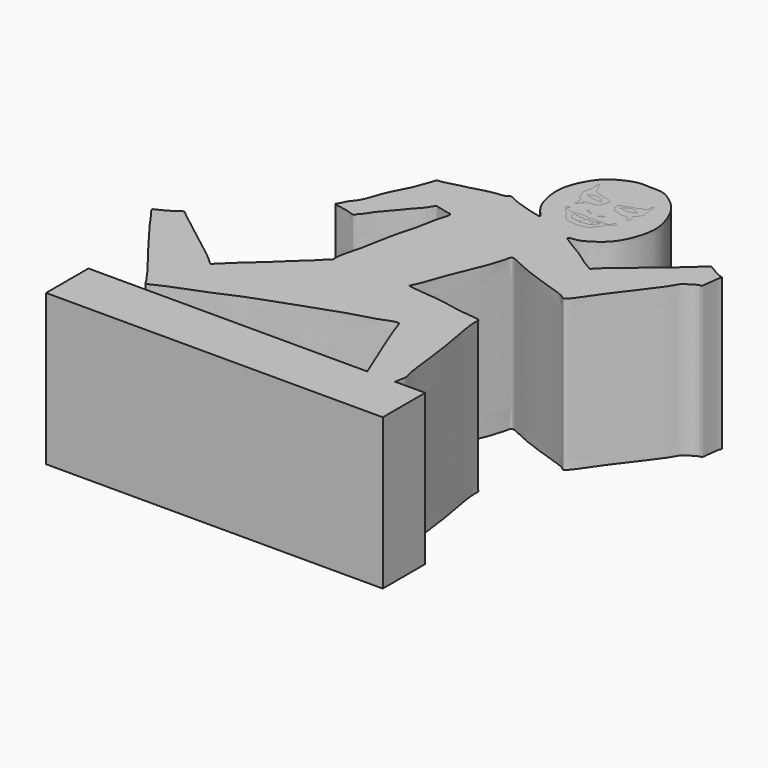
from build123d import *

# Parameters (mm, degrees)
F1_DEPTH = 25.4
F3_DEPTH = 8.7884
F4_W     = 56.6977346316
F4_H     = 8.9219785295
F5_DEPTH = 25.4


with BuildPart() as f1:
    # F0 (on Top) → F1 (new body)
    with BuildSketch(Plane.XY):
        with BuildLine():
            add(Edge.make_bspline(
                [(-18.5659807175, 4.1541662067), (-18.2042361263, 4.4056886884), (-18.2890368782, 6.4363238067), (-17.9087702019, 8.1638774325), (-17.8003695656, 8.6523393259), (-18.2205587111, 9.8511585385), (-18.4460358028, 11.913791687), (-18.8659902811, 15.277986794), (-19.280801125, 18.6439636285), (-20.0158743569, 22.4580856318), (-20.6314641061, 26.1270111673), (-20.4438110369, 27.4711185118), (-21.4305718393, 27.5687153158), (-24.8683071647, 27.8668912076), (-27.7437843787, 28.6702401074), (-31.1180463599, 28.8655216797), (-32.9417857013, 29.1302410371), (-33.4966692727, 29.1798507134), (-33.9096286487, 29.2430102048), (-33.1214090502, 30.4756695808), (-32.1784255425, 33.625518904), (-30.8396523851, 36.7782426274), (-29.4408057887, 40.1333382309), (-28.7994500257, 42.072049557), (-28.4542692293, 43.7603367652), (-28.0801216899, 44.2155422545), (-25.0546238258, 42.5862433139), (-21.7998495136, 41.4246109881), (-18.4163854762, 40.325565876), (-16.2991844612, 39.6188519578), (-15.7243893344, 38.9723313863), (-15.2128548768, 39.3493208214), (-13.773613131, 41.2787831046), (-12.4275904118, 43.4120770038), (-9.0079661787, 47.8170508595), (-6.95921729, 50.5527477551), (-6.2756524015, 51.9438423585), (-5.7482219005, 52.2728794321), (-5.216741218, 52.6316450995), (-4.0171528801, 53.3944755648), (-3.6717096988, 53.0159316457), (-3.4336886374, 55.0924510761), (-3.3600726731, 56.3108132157), (-3.006787649, 56.8801483646), (-3.7351024808, 56.9240336177), (-4.6183642199, 57.4747692816), (-5.8097640616, 58.0453097784), (-6.1335329628, 58.5208213479), (-7.4744312951, 57.2756294281), (-8.8270469414, 55.9445906656), (-11.2251036215, 54.0071788991), (-13.4623411944, 52.1126319284), (-15.6771026127, 50.187030437), (-17.8502690347, 48.4104035112), (-18.1433552032, 47.8129492838), (-18.5293631497, 47.9849107117), (-20.0915330494, 48.8891010277), (-22.0991072876, 50.4578962795), (-23.8986251026, 51.3766683139), (-25.2769247821, 52.3391225528), (-25.8563647154, 52.6510332811), (-26.240710541, 53.1000378264), (-24.5589623412, 53.0951302949), (-22.9047961662, 54.0119369119), (-21.010668942, 55.4124638889), (-19.5262507759, 57.5247855949), (-18.2668907227, 61.6041719318), (-18.8702715397, 64.3498019692), (-19.7020698653, 66.6142056721), (-21.0861188095, 68.8043340558), (-24.0008814275, 71.0152060399), (-25.7378788229, 70.9103782869), (-27.6011919194, 71.0718866176), (-29.0702298401, 70.9532083618), (-31.2922550541, 69.9920952855), (-33.1780666193, 68.679454722), (-34.7073680021, 66.1529851162), (-35.4303104487, 64.0304111539), (-35.5768210741, 62.1097673662), (-35.2707720036, 59.9654662507), (-34.585806885, 57.8453954624), (-33.3692802021, 56.2569347828), (-32.3290485885, 55.297537189), (-34.0402588297, 55.6639124124), (-36.2312093453, 56.3227108616), (-38.1955800191, 56.9829163474), (-39.4067408207, 57.727685812), (-39.7547928019, 57.03011869), (-40.9291752741, 57.0587892568), (-43.0841706105, 56.6099768269), (-45.1917398974, 55.9196067707), (-47.0353865872, 55.6363245856), (-48.858234236, 54.9812411401), (-49.7817504253, 55.0417312185), (-49.8351458126, 54.4804610338), (-50.29018651, 53.3691467115), (-50.9893879694, 51.2857360878), (-52.0447127102, 49.4021815595), (-52.9852979309, 47.468354988), (-53.4607755077, 45.7294601097), (-54.2144076106, 43.9282852534), (-55.2405065691, 43.0099745088), (-55.505478015, 41.9140463411), (-56.209527114, 41.3271750204), (-54.7444197106, 41.1404085741), (-52.8265820848, 40.7117421012), (-52.0171729177, 40.3375230236), (-51.9784980012, 40.8696951392), (-51.1909896436, 41.5153189154), (-50.5921017631, 42.7944900736), (-48.8166259006, 44.5887614179), (-47.6171453753, 46.2856390911), (-46.2900860054, 47.5608100082), (-45.4561195214, 48.7955325444), (-45.3157458332, 49.329247537), (-44.604942868, 49.093735384), (-43.3217090223, 48.7835769306), (-42.6930005116, 48.6529989698), (-42.1116862769, 48.5937851558), (-42.3286188398, 47.5191433558), (-42.8576507735, 46.2332324129), (-43.2157998659, 43.1484618849), (-43.9800853956, 40.9984278883), (-44.6699601293, 37.9048617397), (-45.1581607469, 34.8884113581), (-45.6460500446, 32.7310792445), (-46.5049895539, 29.7164002848), (-46.1837102247, 28.6607392043), (-46.7339702102, 28.6028746652), (-47.9009337632, 27.1817343599), (-50.0535413528, 25.3552616958), (-51.6900872109, 23.7240054429), (-53.3593243994, 22.1441934304), (-54.7639593897, 20.9659485362), (-55.819818102, 20.0162567951), (-56.7903647425, 18.9614857653), (-57.7969453656, 18.1556350525), (-57.8408592976, 17.8972842004), (-58.1891244192, 17.7354949842), (-59.3139874439, 19.0934357099), (-62.75659993, 21.4917249852), (-66.1471773342, 24.3556980509), (-69.3699023295, 26.6341740013), (-70.1575645399, 27.4663689639), (-70.6657283865, 26.8687574511), (-71.4755780625, 26.400712111), (-72.962953636, 25.5642582458), (-73.6665299118, 25.3070651891), (-73.8909430609, 25.0331502362), (-73.0818333677, 24.1679709132), (-71.7637781224, 22.0765309476), (-69.3490449586, 19.0160970793), (-65.9686317148, 14.3936422992), (-63.5806432809, 11.5256383356), (-61.88349482, 9.0566238683), (-61.5441597383, 8.612054579), (-61.275389981, 7.8976600698), (-60.1118148552, 8.6233818292), (-57.0471764853, 9.8362691083), (-53.319028035, 11.2928957302), (-50.679278144, 12.3676870263), (-48.1572624311, 13.5606040464), (-45.3652572831, 14.3943265275), (-35.3290097506, 18.255675704), (-31.1732386137, 19.1186471811), (-28.9862337646, 20.1433884652), (-28.0157225141, 20.2136510328), (-27.6228117813, 18.3838898063), (-24.8897973894, 11.8267368178), (-22.824429561, 6.7094150943), (-22.0499799759, 4.8306180968), (-21.9072747892, 4.0365584749), (-20.053930969, 4.6577425632), (-18.8649853322, 3.9462670853), (-18.5659807175, 4.1541662067)],
                knots=[0, 0, 0, 0, 0.0064954779, 0.0124352179, 0.0153419807, 0.0199735427, 0.0263080412, 0.0343101159, 0.0423568679, 0.0510906188, 0.0595247476, 0.0639464631, 0.0676271569, 0.0756419027, 0.0834687381, 0.0914760252, 0.0972905916, 0.1004487517, 0.1025045407, 0.1070646031, 0.1150957655, 0.1233609437, 0.131574322, 0.1379699834, 0.1434652915, 0.1460512264, 0.1536241701, 0.1621710625, 0.1704209853, 0.1768468165, 0.1803831097, 0.1833229944, 0.1898700645, 0.1970706377, 0.2073605292, 0.2155612726, 0.2206799674, 0.2238636303, 0.227538923, 0.2325481591, 0.2345110669, 0.2402860751, 0.2455244603, 0.2483357875, 0.2514210944, 0.2560695569, 0.2610576302, 0.263744587, 0.2690769771, 0.2753645499, 0.282932196, 0.2904119381, 0.2980767983, 0.3052864716, 0.308334176, 0.3106567388, 0.316411819, 0.323518889, 0.3298004072, 0.3353571348, 0.3389339386, 0.3412448479, 0.3461195141, 0.3523414865, 0.3588818633, 0.3658913048, 0.3747621607, 0.382016344, 0.3886206113, 0.395704288, 0.4038026263, 0.4094794132, 0.4152861308, 0.4205773363, 0.4272185605, 0.4338597889, 0.4412536118, 0.4477602919, 0.4537140828, 0.4600778043, 0.4665866909, 0.4729503908, 0.4768773179, 0.4814419151, 0.4883800335, 0.4948173271, 0.4994753856, 0.5026093525, 0.5070811303, 0.5136087353, 0.5201207544, 0.5261324399, 0.5322119549, 0.5359740789, 0.5387566727, 0.5434786361, 0.5499682511, 0.5564430863, 0.5627615178, 0.5686518294, 0.5746567512, 0.57970522, 0.5843203377, 0.5875263193, 0.5920094252, 0.5985166797, 0.6020388401, 0.6045961548, 0.6088360111, 0.6140359362, 0.6209223351, 0.6272623967, 0.6332259797, 0.6384777514, 0.6412301627, 0.6446381162, 0.6497452222, 0.6533305187, 0.6561130915, 0.6601254498, 0.6654386004, 0.6729920662, 0.6796922307, 0.687403541, 0.6949570243, 0.7016275234, 0.7093109309, 0.7132983609, 0.7158540304, 0.721587364, 0.7290477273, 0.7357226025, 0.7422932008, 0.7481673874, 0.7533001174, 0.7586587625, 0.7634470076, 0.7654716163, 0.7675191601, 0.7728084665, 0.7818192262, 0.7913493384, 0.7999422129, 0.8039317103, 0.8072066263, 0.8115469965, 0.8172970106, 0.8210071015, 0.8230317152, 0.8273173287, 0.8341693888, 0.8428757098, 0.8532964359, 0.8620141855, 0.8692326981, 0.8725022461, 0.8756291144, 0.8800289347, 0.8880706907, 0.8968949644, 0.9042746408, 0.9112097039, 0.9188018197, 0.9330237402, 0.9423468163, 0.9487564506, 0.9523555643, 0.9576162816, 0.9693994873, 0.9799294344, 0.985825492, 0.9889257377, 0.9946310798, 1, 1, 1, 1], degree=3))
        make_face()
    extrude(amount=-F1_DEPTH)

    # F4 (on Top) → F5 (join)
    with BuildSketch(Plane.XY):
        with Locations((-41.4440291934, 2.3024461698)):
            Rectangle(F4_W, F4_H)
    extrude(amount=-F5_DEPTH)


with BuildPart() as f3:
    # F2 (on face) → F3 (new body)
    with BuildSketch(Plane.XY):
        with BuildLine():
            add(Edge.make_bspline(
                [(-26.824330911, 60.2908954024), (-26.7613175317, 60.3460520481), (-26.5946758741, 60.451841608), (-26.3367311778, 60.595460382), (-26.1542438205, 60.673550113), (-26.005063405, 60.7014758678), (-25.8983334851, 60.6591654771), (-25.8897755549, 60.540479356), (-25.9531101475, 60.5209182152), (-26.0839736894, 60.4698463897), (-26.2242996029, 60.4193937947), (-26.3392841882, 60.3847658764), (-26.4043945911, 60.3354906894), (-26.527560157, 60.2928867967), (-26.6578203234, 60.250032372), (-26.7784651107, 60.1966570464), (-26.8899974303, 60.1602094304), (-26.915299839, 60.1985065443), (-26.8667255246, 60.2537867011), (-26.824330911, 60.2908954024)],
                knots=[0, 0, 0, 0, 0.0867382801, 0.1766998683, 0.2499547302, 0.3126945242, 0.3646168888, 0.414578401, 0.4529884173, 0.5145249387, 0.5795898331, 0.6353804499, 0.6816826378, 0.7401968742, 0.801487341, 0.8632836721, 0.9163595118, 0.94164357, 1, 1, 1, 1], degree=3))
        make_face()
    extrude(amount=-F3_DEPTH)


with BuildPart() as f3b:
    # F2 (on face) → F3, piece 2 (new body)
    with BuildSketch(Plane.XY):
        with BuildLine():
            add(Edge.make_bspline(
                [(-27.8926733881, 60.1890161633), (-27.8822121578, 60.1958536289), (-27.8957807049, 60.227079104), (-27.8909323582, 60.2404885972), (-27.9194068855, 60.2556774589), (-28.0208552896, 60.3703825658), (-28.1222488797, 60.4315827234), (-28.2652300639, 60.5113217298), (-28.3475961092, 60.5482394802), (-28.442692209, 60.6081066432), (-28.5387753557, 60.6877614988), (-28.6514256371, 60.754964231), (-28.7443341109, 60.7866239138), (-28.8545397739, 60.7825265273), (-28.9052324729, 60.7335258691), (-28.9250736871, 60.6963429497), (-28.9023017469, 60.6219774735), (-28.8424425311, 60.5494870752), (-28.7878184392, 60.5066041572), (-28.710959232, 60.5073653526), (-28.6261481891, 60.501524432), (-28.5033192559, 60.4436230369), (-28.3935283502, 60.3754812763), (-28.313720898, 60.3560595565), (-27.9281211644, 60.1658474783), (-27.8926733881, 60.1890161633)],
                knots=[0, 0, 0, 0, 0.0270575076, 0.0427181218, 0.0647267339, 0.118571312, 0.1693557007, 0.2249510509, 0.2674074506, 0.3134078986, 0.3634542464, 0.413796561, 0.4579176992, 0.5031651507, 0.5388599927, 0.566019666, 0.6036419715, 0.6469983766, 0.683009058, 0.7204625223, 0.7612037161, 0.8130888893, 0.8609451751, 0.9083159008, 1, 1, 1, 1], degree=3))
        make_face()
    extrude(amount=-F3_DEPTH)


with BuildPart() as f3c:
    # F2 (on face) → F3, piece 3 (new body)
    with BuildSketch(Plane.XY):
        with BuildLine():
            add(Edge.make_bspline(
                [(-25.2997111529, 57.4133433402), (-25.2865569792, 57.449508623), (-25.2567643363, 57.4887645637), (-25.1994854436, 57.6157349903), (-25.0743159714, 57.7474994779), (-24.9389930865, 57.8838189504), (-24.8022980211, 58.0291808031), (-24.7300816943, 58.0990401225), (-24.6504821496, 58.2264021012), (-24.5947253561, 58.3833403479), (-24.4798147187, 58.6234127091), (-24.4363820979, 58.8182056707), (-24.4145222223, 58.8623761005), (-24.3533864708, 58.9079709698), (-24.3068972633, 58.9448042921), (-24.2052552119, 58.9517429546), (-24.2638955566, 59.0296082605), (-24.2210099776, 59.1113346276), (-24.1429034235, 59.0362460538), (-24.136908831, 59.1375509658), (-24.0322048675, 59.1388011064), (-23.9425474749, 59.1844757791), (-23.8617201031, 59.2034130039), (-23.8272390483, 59.2898758236), (-23.8272622426, 59.3477886718), (-23.8710888326, 59.3890778524), (-23.840732097, 59.4367713973), (-23.860074998, 59.4763348399), (-23.8258886816, 59.5242222658), (-23.7887334624, 59.4510323985), (-23.6876675789, 59.4339894854), (-23.6149289886, 59.4258706376), (-23.5247214554, 59.494033745), (-23.4424635392, 59.5562622861), (-23.373098322, 59.6887552005), (-23.3193220664, 59.8024420654), (-23.3596210891, 59.9210812285), (-23.439832737, 59.9951091038), (-23.5421920774, 60.0616714922), (-23.6129626156, 60.1022542921), (-23.691880953, 60.0945268648), (-23.7344434906, 60.045826114), (-23.7849659328, 59.9843634635), (-23.8410881434, 59.9393302169), (-23.8751419969, 59.8754181766), (-23.8974856123, 59.8259759349), (-23.8148416186, 59.76653233), (-23.8104205595, 59.7204251953), (-23.837339761, 59.6715549172), (-23.8655255296, 59.6497536242), (-23.9225634713, 59.6496753249), (-23.9525435549, 59.7049989462), (-24.0007777537, 59.7283761341), (-23.9336251889, 59.6283314548), (-23.9248293848, 59.5733540224), (-23.9889690399, 59.5141861732), (-24.0154726231, 59.4643816291), (-24.1261390349, 59.4199659453), (-24.1596588932, 59.3218437745), (-24.2895497282, 59.2731018666), (-24.4252664115, 59.2513908097), (-24.630926312, 59.1738508691), (-24.8085965224, 59.1923331821), (-25.0520913192, 59.1706660301), (-25.2620450342, 59.2406826083), (-25.3973300375, 59.1705246471), (-25.6337501066, 59.2058238788), (-25.8628250967, 59.2129775003), (-26.1234459346, 59.1844453627), (-26.3643033675, 59.2153909022), (-26.6204125757, 59.2565222268), (-26.8482323834, 59.2216717629), (-27.4642417958, 59.0998419866), (-27.525200728, 58.9999778952), (-27.5829292509, 59.1576466541), (-27.9039722939, 59.2361934427), (-28.2746889658, 59.2226963446), (-28.627186846, 59.2982772936), (-29.2928250901, 59.2623545168), (-29.7338829673, 59.1437495953), (-30.3562176414, 59.1126368292), (-30.7584456634, 59.1564162872), (-31.0446642713, 59.2741915799), (-31.1480479537, 59.3632776154), (-31.262909819, 59.3709794375), (-31.2571192119, 59.4407926069), (-31.3211028082, 59.5357674071), (-31.4107122814, 59.5747420838), (-31.367563533, 59.6648456429), (-31.3500072584, 59.7866726454), (-31.1976192017, 59.8487820744), (-31.2660261769, 60.0100817987), (-31.3231973704, 60.1116960957), (-31.4220140659, 60.0356990275), (-31.5776555129, 60.060895602), (-31.6673053988, 59.9222400912), (-31.7685438499, 59.7958151706), (-31.8029053085, 59.6952153104), (-31.6423701977, 59.6323583882), (-31.6099807659, 59.4544172118), (-31.6395142556, 59.3630534656), (-31.4157441659, 59.3496377967), (-31.3165910679, 59.2032124737), (-31.2903187746, 59.0238923602), (-31.0539652379, 58.7958378651), (-30.8283670194, 58.6219938703), (-30.6406594345, 58.4557640066), (-30.4307445753, 58.1788873233), (-30.2217517022, 57.8325570625), (-29.9312799637, 57.3964712154), (-29.6506166533, 57.1759331701), (-29.5309810731, 56.9481495645), (-28.9051019734, 56.7232503551), (-28.3330278045, 56.6873596853), (-27.7594972684, 56.5277701446), (-27.6189667376, 56.7719067781), (-27.4898121938, 56.4664411109), (-27.250064464, 56.6720507055), (-26.626448046, 56.6542374918), (-25.9775425244, 56.8867036547), (-25.3798702944, 57.0301918559), (-25.3247232878, 57.3445765018), (-25.2997111529, 57.4133433402)],
                knots=[0, 0, 0, 0, 0.0062760574, 0.0138341066, 0.022787734, 0.0321807081, 0.0414368127, 0.0481068596, 0.0559647726, 0.0646163241, 0.0756661319, 0.0848573169, 0.0893580066, 0.0949239225, 0.1003272803, 0.1058932981, 0.1114283376, 0.1166556349, 0.1219671449, 0.1270827264, 0.1334545871, 0.1402233899, 0.1460706367, 0.1521744687, 0.1571388272, 0.1618356481, 0.166361186, 0.1706607936, 0.1745958659, 0.1797091424, 0.1863722301, 0.1919803213, 0.1987758581, 0.2055932509, 0.2136415245, 0.2210023966, 0.2280470209, 0.2349957415, 0.2423176851, 0.2482809107, 0.2538349562, 0.2590719791, 0.2649762061, 0.2706405297, 0.2762482907, 0.2806737269, 0.286943807, 0.29129806, 0.2960866413, 0.2999877727, 0.3045946173, 0.3099245474, 0.3131388031, 0.319467453, 0.3245272688, 0.3303609021, 0.3354093947, 0.3423099243, 0.3488372807, 0.3562716407, 0.364222388, 0.3738656312, 0.3827737865, 0.3931473081, 0.402751317, 0.4106050749, 0.4206369396, 0.4308400277, 0.4414920753, 0.4519139006, 0.4621755787, 0.4729486546, 0.4894114105, 0.4947885602, 0.5017690485, 0.5135915037, 0.5264030306, 0.5390879116, 0.5559311654, 0.5705133621, 0.5868603775, 0.6004278639, 0.6117722415, 0.6195059115, 0.6258423532, 0.6307285801, 0.6377890657, 0.643746011, 0.6496998266, 0.6569884523, 0.6645159126, 0.672666718, 0.6791096569, 0.6856342105, 0.6935617488, 0.7017454609, 0.7103686075, 0.716231182, 0.7241982741, 0.7328826155, 0.7382783148, 0.7472394538, 0.755783572, 0.7645129812, 0.7763435922, 0.7876660832, 0.7980636864, 0.8102319214, 0.8237811897, 0.8390295027, 0.8512895317, 0.8615037458, 0.8779725665, 0.8948161728, 0.9101963656, 0.9185341628, 0.9278742167, 0.9378590616, 0.9542968647, 0.9722368529, 0.9880663279, 1, 1, 1, 1], degree=3))
        make_face()
        with BuildLine():
            add(Edge.make_bspline(
                [(-29.8097021878, 58.9004419744), (-29.8223434129, 58.8996844101), (-29.8301778006, 58.8361327136), (-29.8145431583, 58.7926566357), (-29.7608441796, 58.6971891986), (-29.7631963133, 58.6055102403), (-29.7281622506, 58.5289430257), (-29.7007303103, 58.4402372598), (-29.6464136594, 58.5471349648), (-29.6344242486, 58.4783830756), (-29.6472147577, 58.3857141706), (-29.6385017747, 58.2854255796), (-29.5445902313, 58.2438923417), (-29.5164034239, 58.25197777), (-29.5187280879, 58.174022159), (-29.464631661, 58.1394470827), (-29.4140563626, 58.1038332962), (-29.4290048321, 58.0549912798), (-29.4212386542, 57.9656593256), (-29.3720591637, 57.8874714831), (-29.2920100015, 57.8089846493), (-29.2836105743, 57.7417921173), (-29.1784708562, 57.6441451213), (-29.0841263945, 57.8112961172), (-29.0488419458, 57.8980516122), (-29.0068511533, 57.6181947494), (-28.9095487199, 57.6682901447), (-28.8840609277, 57.631397182), (-28.7855694323, 57.5942980917), (-28.7090471854, 57.5894824801), (-28.6442675697, 57.605920767), (-28.6037677894, 57.6903022831), (-28.5404439879, 57.8112805961), (-28.5621911063, 57.8562563409), (-28.450266657, 57.8813939867), (-28.4884357573, 57.8131617038), (-28.4254021109, 57.6506614331), (-28.3562185191, 57.5706439347), (-28.1862853527, 57.5573828803), (-28.1532398731, 57.5259938439), (-28.0866466188, 57.5220741487), (-28.0601125621, 57.6248462603), (-28.0092201754, 57.7796550564), (-28.0158800333, 57.8407337598), (-27.8825714504, 57.8102564183), (-27.9264465213, 57.7695056563), (-27.9156074234, 57.7019632799), (-27.9537192078, 57.6024152396), (-27.8188549832, 57.5132415973), (-27.7792193434, 57.4477217813), (-27.6669988843, 57.5003059606), (-27.6894508265, 57.6175687347), (-27.6122675255, 57.7324735532), (-27.5778295313, 57.9804165996), (-27.5516216085, 57.8740459214), (-27.5263556666, 57.6631918559), (-27.4936680028, 57.5399128448), (-27.4799710137, 57.4314351891), (-27.324654074, 57.4857536909), (-27.1833472349, 57.5756411916), (-27.1459348767, 57.6548599227), (-27.155257652, 57.734939863), (-27.1336506931, 57.5959495474), (-26.9311109806, 57.5196585838), (-26.9273905111, 57.9077131139), (-26.8957822029, 57.5729021534), (-26.721496812, 57.5762895003), (-26.6016085369, 57.5981938017), (-26.5533281468, 57.9007021347), (-26.5461575393, 57.7691955113), (-26.4504739387, 57.5619008386), (-26.3390710032, 57.6038642531), (-26.249245214, 57.6029797786), (-26.1928940366, 57.6166769139), (-26.048937629, 57.6855956228), (-26.0782773857, 57.8381886344), (-26.1278500344, 57.9742641363), (-26.1553218105, 58.1554372266), (-26.1656997282, 58.3851127388), (-26.0604592428, 58.1650322449), (-26.0016808031, 57.9048316444), (-25.8768457993, 57.7414016139), (-25.793563541, 57.7566215962), (-25.7220048899, 57.8242053457), (-25.7121139731, 57.9598053924), (-25.7555691774, 58.3120630644), (-25.7086725597, 58.0041990902), (-25.6053760027, 58.0213914758), (-25.6330540863, 58.1125261888), (-25.6323384625, 58.3038687984), (-25.6073564172, 58.1280149491), (-25.506601341, 58.1883745107), (-25.4772487091, 58.2958642479), (-25.6432446517, 58.4124100297), (-25.4118370946, 58.3412497329), (-25.4082381303, 58.4817340449), (-25.3476277929, 58.5358142694), (-25.2495893006, 58.6745300491), (-25.2287388365, 58.8050285188), (-25.249515358, 58.8918569897), (-25.340299877, 58.9010580832), (-25.3899752113, 58.7851970244), (-25.4543701887, 58.6953555506), (-25.4529739002, 58.7992454115), (-25.4666499758, 58.8742728538), (-25.5870367082, 58.877086249), (-25.6560392966, 58.7556990949), (-25.7168912528, 58.6306339621), (-25.72712115, 58.7534300582), (-25.8011418525, 58.8549235163), (-25.9575694487, 58.7345588206), (-26.1394200571, 58.6201648846), (-26.1527731129, 58.4143823878), (-26.1788819324, 58.5752361014), (-26.3411779865, 58.6030944722), (-26.4725717678, 58.6640108171), (-26.6244290822, 58.5582196901), (-26.7334877036, 58.4363964386), (-26.7514620487, 58.2809390467), (-26.7568084603, 58.3956949456), (-26.7782664331, 58.5334251766), (-26.8578749566, 58.6593901044), (-27.0870736014, 58.6452824447), (-27.2989451662, 58.6870958832), (-27.439701379, 58.5923007915), (-27.5428795522, 58.4900370944), (-27.5455186847, 58.2094952818), (-27.6294917552, 58.2847670127), (-27.6298695797, 58.3853169669), (-27.7558061761, 58.5443614083), (-27.8292878942, 58.6118191797), (-28.0352523921, 58.6910976956), (-28.2825011213, 58.5371268342), (-28.4162719325, 58.2510374807), (-28.3947441325, 58.39820203), (-28.409203924, 58.5835000378), (-28.6744017138, 58.7536182868), (-28.9840705677, 58.6925776339), (-29.0549226947, 58.490417649), (-29.1107046208, 58.7070344607), (-29.2695323012, 58.7866730287), (-29.44383767, 58.6997575847), (-29.5268861405, 58.7999608159), (-29.6939393711, 58.7192896577), (-29.7875945171, 58.9017668446), (-29.8097021878, 58.9004419744)],
                knots=[0, 0, 0, 0, 0.0050152948, 0.0099058361, 0.0166180458, 0.022919006, 0.0292758131, 0.034174973, 0.0395767978, 0.0434442945, 0.0501764483, 0.0566174307, 0.0628775741, 0.0657579529, 0.0709394057, 0.0762740338, 0.0811206752, 0.0855029604, 0.0916312799, 0.0980729969, 0.1048702846, 0.1103765582, 0.11687296, 0.1254539242, 0.1296614007, 0.1391130771, 0.1445133336, 0.1485285211, 0.1552119107, 0.1611001114, 0.1660923263, 0.1724980405, 0.1801318309, 0.1840632951, 0.1897675605, 0.194166906, 0.2027629838, 0.2096845539, 0.2179354545, 0.2223844211, 0.2269431601, 0.2334759213, 0.242104136, 0.2463434167, 0.2527653767, 0.2565645595, 0.2619647412, 0.268298315, 0.2762699633, 0.2817091642, 0.2879504355, 0.2945390332, 0.3028513522, 0.3118780764, 0.3164114392, 0.3263785003, 0.3341700664, 0.3399036491, 0.3475190707, 0.3562760457, 0.3624677055, 0.3665406511, 0.3728531849, 0.3807686431, 0.3900898821, 0.3986469947, 0.406711587, 0.4138704695, 0.4236123625, 0.4286169823, 0.4383461737, 0.4448009084, 0.4509273119, 0.4560857577, 0.4637810242, 0.4714022975, 0.4793943333, 0.4889099034, 0.4967138705, 0.504624919, 0.5162540521, 0.5251116352, 0.5305066059, 0.5365149649, 0.5449482944, 0.5544701087, 0.562993729, 0.5679955286, 0.5744168832, 0.5815620096, 0.5875891607, 0.5933816429, 0.6001301994, 0.606995122, 0.614541167, 0.6212289927, 0.6272340168, 0.6357352076, 0.6433973944, 0.6491193137, 0.6543619384, 0.6618718235, 0.6674033483, 0.6728469877, 0.678432144, 0.6846381624, 0.6926831688, 0.6989186103, 0.7047581904, 0.7113633672, 0.7198687207, 0.7300094479, 0.7371845169, 0.7431705817, 0.7515326315, 0.7592457927, 0.7677559197, 0.7766545856, 0.7830951594, 0.7882478259, 0.796457337, 0.8039057766, 0.8136076378, 0.8233042732, 0.8314378127, 0.8396647114, 0.8494039941, 0.8541176982, 0.860861673, 0.8700286359, 0.8767945411, 0.8858837303, 0.897332595, 0.9071701747, 0.9126635562, 0.9216274603, 0.9328170999, 0.9441817893, 0.9514467681, 0.9593741029, 0.9679575631, 0.9765084046, 0.9831113219, 0.9912289761, 1, 1, 1, 1], degree=3))
        make_face(mode=Mode.SUBTRACT)
    extrude(amount=-F3_DEPTH)


with BuildPart() as f3d:
    # F2 (on face) → F3, piece 4 (new body)
    with BuildSketch(Plane.XY):
        with BuildLine():
            add(Edge.make_bspline(
                [(-32.3356427252, 67.5499513745), (-32.3576011497, 67.5503393526), (-32.3501753757, 67.41197118), (-32.3252274311, 67.2973261455), (-32.2998296803, 67.1828191722), (-32.4333217314, 67.0541974394), (-32.4968534525, 66.9150406109), (-32.3732088331, 66.9347446574), (-32.309700208, 66.8608735259), (-32.4485362505, 66.8119092899), (-32.3100147375, 66.8217817394), (-32.3419166563, 66.7103369072), (-32.3226856982, 66.4173252129), (-32.3420207592, 65.9316143716), (-32.2685548823, 65.815748098), (-32.3123751122, 65.7713145569), (-32.3660948409, 65.6013187944), (-32.4578636932, 65.4419409652), (-32.4929661222, 65.2536824816), (-32.4948498606, 65.1220912165), (-32.5703149331, 65.0308872633), (-32.6112922369, 64.6637571155), (-32.5722714682, 64.3065623245), (-32.5077945046, 63.9957085007), (-32.3438243313, 63.7517120708), (-32.2472501908, 63.5101316505), (-32.2279880044, 63.2825422707), (-32.1499568073, 63.0919849017), (-32.0019232143, 62.917073066), (-31.8378083167, 62.8425449776), (-31.6966338916, 62.7941062708), (-31.5737811991, 62.6143215517), (-31.4857455396, 62.5070751621), (-31.424302235, 62.2606660008), (-31.4983514143, 62.0821308943), (-31.4349360907, 61.8338597128), (-31.3941660388, 61.5603032405), (-31.5099521514, 61.502102393), (-31.545048019, 61.3379133287), (-31.4155892127, 61.2472221374), (-31.2079122622, 61.2560909978), (-31.0933747098, 61.439580514), (-31.0613399242, 61.6335226928), (-30.8884807508, 61.7283480794), (-30.7289226255, 61.8768785542), (-30.6093584544, 62.0280740836), (-30.5530297259, 62.0918914516), (-30.710580257, 62.0451014463), (-30.8182698912, 62.1700876324), (-30.7385109511, 62.116054076), (-30.6680779222, 62.1406529735), (-30.7763834608, 62.2140859218), (-30.9026792175, 62.4229877182), (-30.7237433103, 62.3643624084), (-30.3928005726, 62.333260454), (-30.1158364245, 62.3773996217), (-29.9625202835, 62.4125750354), (-29.9169981816, 62.4477840485), (-30.0128384218, 62.4949917467), (-29.9571797124, 62.6079018133), (-29.8489894748, 62.4853343017), (-29.7556885178, 62.556364923), (-29.660584394, 62.4389200032), (-29.5913956236, 62.5157989269), (-29.3679370955, 62.5640267172), (-29.2487528686, 62.6661503634), (-29.2855937763, 62.5004173521), (-29.5060494934, 62.4497637404), (-29.2487642259, 62.4278178168), (-28.9660686931, 62.5765762366), (-28.7500937069, 62.6397525426), (-28.438690763, 62.9563969609), (-28.4270821776, 63.3150166659), (-28.3555878494, 63.3510275179), (-28.276421966, 63.431835959), (-28.316887063, 63.5019971132), (-28.1994136717, 63.5790185418), (-28.2519733728, 63.7010787524), (-28.1969886817, 63.7646024833), (-28.2305888497, 63.8143400139), (-28.23170569, 63.9692126493), (-28.1324909856, 64.0517038174), (-28.1495095101, 64.14798608), (-28.0325267826, 64.0990432136), (-28.0535252743, 64.2089102162), (-28.1176807355, 64.2649329478), (-28.0991413556, 64.3988899747), (-28.0300231879, 64.2658768649), (-27.981235549, 64.1852574584), (-28.0505266634, 64.3667384532), (-28.0971697745, 64.441038613), (-28.1117727086, 64.5152337547), (-28.2345038074, 64.5101540273), (-28.3851294762, 64.6321248577), (-28.3851120719, 64.7004199679), (-28.5345249107, 64.6592731531), (-28.4649804523, 64.7463827651), (-28.951069858, 64.902038102), (-28.9002966874, 64.7838370688), (-28.8698902957, 64.7222322477), (-28.9126923416, 64.7258670163), (-28.9502762235, 64.8266745737), (-29.3275797947, 65.0300291439), (-29.3300701737, 64.8130001516), (-29.4542249015, 64.9188248322), (-29.5471626378, 65.0032229297), (-29.5440466244, 64.7886721877), (-29.6120232888, 65.0847400522), (-30.0438294893, 65.0833915319), (-30.5622205642, 65.2638474205), (-30.9706934791, 65.3639066889), (-30.8873052522, 65.5897210961), (-31.1779517365, 65.4354658802), (-31.1295164542, 65.6225943316), (-31.29507456, 65.6065780353), (-31.3870714568, 65.8627796603), (-31.5584914428, 65.9350967399), (-31.4051367435, 65.9751976091), (-31.6263209885, 66.1000316622), (-31.7333057561, 66.0698467745), (-31.5630891533, 66.1751899426), (-31.6653184686, 66.2814708687), (-31.6254834169, 66.412164708), (-31.9775768351, 66.8067382088), (-31.9922994695, 66.9920836045), (-32.2869354415, 67.5490907774), (-32.3356427252, 67.5499513745)],
                knots=[0, 0, 0, 0, 0.0072518132, 0.0151115459, 0.0217541276, 0.0308663433, 0.0376898801, 0.0439878504, 0.0491969081, 0.0549492881, 0.0603101565, 0.0661207305, 0.0778934546, 0.0926848473, 0.0996002628, 0.1041732652, 0.112878747, 0.122144199, 0.1312812438, 0.1386123999, 0.1454822785, 0.1579651851, 0.170883753, 0.1825665462, 0.1938647029, 0.2045166359, 0.2144383412, 0.2239083946, 0.233836675, 0.2426260859, 0.2506476438, 0.2601483216, 0.2681764414, 0.2783417308, 0.2873998937, 0.2981242804, 0.3086508293, 0.3155786289, 0.3233702572, 0.3310833951, 0.3401492862, 0.3495332402, 0.3585915933, 0.3675388409, 0.3775656404, 0.3869728512, 0.3911221753, 0.3985848419, 0.4053675488, 0.4101321245, 0.4145695391, 0.4214800163, 0.4304902985, 0.4372875727, 0.4497943116, 0.4612013295, 0.4693443969, 0.4730195007, 0.4789157492, 0.4844657385, 0.491686506, 0.4980209055, 0.5050029276, 0.5108710988, 0.5212703721, 0.5278221639, 0.5346803505, 0.5425502885, 0.5505121558, 0.5627421961, 0.5727792032, 0.586508279, 0.5984862866, 0.6040628086, 0.6106107891, 0.6157844626, 0.6227743218, 0.6298775858, 0.635331674, 0.6400822945, 0.6480412228, 0.655490164, 0.6606877766, 0.6663805247, 0.6719325456, 0.678500223, 0.6841323727, 0.6911315337, 0.695778885, 0.7036157819, 0.7104759138, 0.7154304122, 0.7224015242, 0.7314331651, 0.7360939034, 0.7428621042, 0.7469902403, 0.7603417716, 0.7654440015, 0.7705712869, 0.7734001013, 0.7803457702, 0.7927355141, 0.7993775672, 0.806717082, 0.8127912417, 0.8192445485, 0.8274002953, 0.8407160175, 0.857078181, 0.869515277, 0.8764821884, 0.8857038065, 0.8921990988, 0.8992469085, 0.9101406594, 0.9174493139, 0.9225568266, 0.9318830433, 0.9369407841, 0.9442493616, 0.9511175885, 0.9584800579, 0.9728058997, 0.9839143231, 1, 1, 1, 1], degree=3))
        make_face()
        with BuildLine():
            add(Edge.make_bspline(
                [(-31.6690653563, 64.1354322433), (-31.6657257325, 64.1113511071), (-31.5062389866, 64.0777946414), (-31.4108757603, 64.0405380836), (-31.3360249399, 63.9214226202), (-31.2432688164, 63.9154004567), (-31.0901880804, 63.9480076193), (-31.0484080702, 63.8672018104), (-30.9236165434, 63.835446341), (-30.7688819984, 63.8047959452), (-30.6459804033, 63.7583006985), (-30.5027070802, 63.712595984), (-30.3601642765, 63.6624545696), (-30.2079929446, 63.6600552265), (-30.0878571635, 63.6578993962), (-29.9965761876, 63.6403655482), (-29.9079597906, 63.6797056618), (-29.8064347775, 63.6987223094), (-29.6719609805, 63.6718188625), (-29.5054159636, 63.6276927755), (-29.3677502134, 63.6536203655), (-29.1986236285, 63.734565836), (-29.008674007, 63.692409012), (-28.8690154056, 63.6900154256), (-28.9001995649, 63.7732246547), (-28.9685499106, 63.8766860836), (-29.0800666494, 63.9537467599), (-29.2282122035, 64.0018791307), (-29.3519418905, 64.1204744968), (-29.5011668425, 64.3102495661), (-29.5968885584, 64.3955406289), (-29.7269581264, 64.4618693146), (-29.996077797, 64.4904193663), (-30.2221604917, 64.5464682029), (-30.4077096442, 64.5684769955), (-30.5785734484, 64.5907816576), (-30.7473758375, 64.5757494318), (-30.9738872599, 64.5047056433), (-31.179622673, 64.4100540461), (-31.3824429141, 64.3094276137), (-31.5087121007, 64.2227625344), (-31.6724296039, 64.1596909362), (-31.6690653563, 64.1354322433)],
                knots=[0, 0, 0, 0, 0.0256643156, 0.0482309605, 0.0708390086, 0.0902799216, 0.1146018579, 0.1322417614, 0.1548810704, 0.1808517808, 0.2043865372, 0.2293491941, 0.2545993074, 0.2798271978, 0.3022781403, 0.3215873981, 0.3412842665, 0.3618061324, 0.385805188, 0.4125041163, 0.4365031101, 0.4639795379, 0.4932440132, 0.5142219007, 0.5298676413, 0.5529869687, 0.5767572627, 0.6017964474, 0.6287986701, 0.660567777, 0.6835308367, 0.7075728964, 0.7412458879, 0.7729437069, 0.8007661062, 0.8272932819, 0.8538204576, 0.8851820818, 0.9164929393, 0.9466700391, 0.9741464546, 1, 1, 1, 1], degree=3))
        make_face(mode=Mode.SUBTRACT)
    extrude(amount=-F3_DEPTH)


with BuildPart() as f3e:
    # F2 (on face) → F3, piece 5 (new body)
    with BuildSketch(Plane.XY):
        with BuildLine():
            add(Edge.make_bspline(
                [(-22.8840708733, 61.5614950657), (-22.8366920376, 61.5753725275), (-22.8209845504, 61.7657238902), (-22.9372932156, 61.9900315044), (-22.8182050484, 62.1278245782), (-22.932481363, 62.3549621777), (-22.8356583643, 62.5009765097), (-22.9978418942, 62.7069369288), (-22.9513997937, 62.8687662892), (-23.1087314773, 62.9819564279), (-23.1317340003, 63.0999937471), (-22.7880702331, 63.2708294445), (-22.8174006428, 63.3729236516), (-22.5446873274, 63.3621324646), (-22.7022130356, 63.4681252727), (-22.5370802928, 63.6700845962), (-22.442538272, 63.5977901308), (-22.4857246765, 63.7159435627), (-22.373056225, 63.8223446479), (-22.3560546493, 63.9382447818), (-22.2425875887, 64.0528802449), (-22.2414367382, 64.5163524486), (-22.3967634206, 64.9410220377), (-22.4183422428, 65.0649463253), (-22.4090078458, 65.5357634037), (-22.4890546473, 65.9040809962), (-22.4479838366, 66.626680498), (-22.565571071, 66.9016890159), (-22.8142369371, 66.6558231133), (-22.7735442792, 66.1267076411), (-23.0067092464, 65.6816861468), (-23.3132219992, 65.5011122664), (-23.8651869195, 65.4650350139), (-24.1994486671, 65.0926825948), (-24.7098418463, 65.0688515222), (-25.1534006079, 64.8988437617), (-25.6050447303, 64.6446941486), (-25.6935742491, 64.6635147832), (-26.0602258285, 64.5923766017), (-26.2785577668, 64.4754516037), (-26.6331675587, 64.3661377218), (-26.5791560825, 64.2648442902), (-26.6691532923, 64.2126169035), (-26.5842835262, 64.0304487542), (-26.7165028412, 63.8193403734), (-26.5596765617, 63.9783813609), (-26.5856512331, 63.7728515732), (-26.5970704263, 63.6965269477), (-26.6206314474, 63.5071821075), (-26.5920511352, 63.4017401331), (-26.3225606967, 63.3055031321), (-26.4666219401, 63.1957325562), (-26.2373078101, 63.0518181316), (-26.1642775546, 63.0696285918), (-26.0631706217, 63.0437011046), (-26.0758872035, 62.9176520536), (-26.2255585594, 63.0092906702), (-25.9738665751, 62.7472332166), (-25.8939272715, 62.8458246518), (-25.8263659339, 62.7394510852), (-25.6716386414, 62.6768246715), (-25.5767252798, 62.717309516), (-25.34972458, 62.7106552842), (-25.2919429193, 62.6037585243), (-25.1133182438, 62.5451113505), (-24.9451110029, 62.5496155084), (-24.8813502655, 62.4923182525), (-24.7013272146, 62.4277861011), (-24.5088752922, 62.4656969484), (-24.3295629238, 62.4043723294), (-24.2808695177, 62.529112112), (-24.2281012668, 62.3741307784), (-24.0637208245, 62.5449173051), (-23.9297118874, 62.482814444), (-23.8860630679, 62.5050105291), (-23.8492507757, 62.4697740995), (-23.8932960535, 62.4251003223), (-23.930260857, 62.3943041891), (-23.8458732343, 62.4105466457), (-23.7815617422, 62.4256402516), (-23.6939575166, 62.378766515), (-23.6019150566, 62.457129834), (-23.4740643384, 62.2940152679), (-23.5295861613, 62.2067456863), (-23.3975271842, 62.1928244236), (-23.4488691576, 62.0246386253), (-23.1454828975, 61.9825768259), (-23.1713195162, 61.7289413384), (-22.9428226735, 61.5442864143), (-22.8840708733, 61.5614950657)],
                knots=[0, 0, 0, 0, 0.0120028734, 0.0258626611, 0.0365286415, 0.049551286, 0.060305457, 0.07353806, 0.084292231, 0.0956670171, 0.1038959975, 0.1201317623, 0.1276380268, 0.1391619149, 0.147390722, 0.1598914283, 0.1667592675, 0.1743288575, 0.1850226809, 0.1941961485, 0.2045525307, 0.2233084186, 0.2417624799, 0.2517557511, 0.2698793637, 0.2880206298, 0.3116721796, 0.3239549734, 0.3372105779, 0.3575315189, 0.3766407867, 0.3927262988, 0.4127556739, 0.4317440304, 0.4508193244, 0.4707140416, 0.4898140421, 0.498161264, 0.5142656392, 0.529542789, 0.5449594101, 0.552092584, 0.5594519356, 0.5717072579, 0.5822281386, 0.5904054005, 0.6003123461, 0.6092840305, 0.6208845619, 0.630067287, 0.6429868501, 0.6512162943, 0.6639633478, 0.6720660693, 0.6801190876, 0.6878009334, 0.6947061999, 0.708213697, 0.7161244361, 0.7247693444, 0.7357363168, 0.7448026653, 0.757314865, 0.7665312329, 0.7783106763, 0.7894509517, 0.797301193, 0.8089829479, 0.8216125642, 0.8328715358, 0.840221167, 0.8480647856, 0.8598139508, 0.8699122169, 0.8755218457, 0.8805331271, 0.8872428715, 0.8917667029, 0.8985182598, 0.9060723451, 0.9141761029, 0.9225659175, 0.9338023414, 0.9411763806, 0.9491397223, 0.958609712, 0.9717520534, 0.9851159191, 1, 1, 1, 1], degree=3))
        make_face()
        with BuildLine():
            add(Edge.make_bspline(
                [(-25.9708426893, 63.8766437769), (-25.9633681317, 63.9190701382), (-25.7658535239, 63.9905733663), (-25.5296155088, 64.1931281306), (-25.3440966258, 64.3532862448), (-25.0839795755, 64.5176017209), (-24.6838262743, 64.6730578687), (-24.3308438536, 64.6967543866), (-23.8669697531, 64.4983046466), (-23.5295089865, 64.3735202895), (-23.2365345065, 64.2241549245), (-23.1913283659, 64.2120961232), (-23.3042318246, 64.1303335642), (-23.5012050414, 64.0444107269), (-23.9334915958, 63.8730402333), (-24.1862152778, 63.7755361204), (-24.5496052694, 63.6962753855), (-24.8394463274, 63.6848971541), (-25.2341814762, 63.7779821402), (-25.4821173844, 63.8212151045), (-25.6732919341, 63.8144174737), (-25.7185683103, 63.8499556038), (-25.7787020201, 63.7447469484), (-25.8283550928, 63.7687379351), (-25.8780222055, 63.7569047953), (-25.9197724089, 63.7887120412), (-25.9759516125, 63.847645001), (-25.9708426893, 63.8766437769)],
                knots=[0, 0, 0, 0, 0.0398224634, 0.0896411227, 0.1321363459, 0.1798936549, 0.2361305823, 0.2873871528, 0.3476345715, 0.4025903617, 0.450470639, 0.4628284665, 0.4902891167, 0.5324889938, 0.5909795772, 0.6374193091, 0.6888153076, 0.7361977336, 0.7907298212, 0.8355911598, 0.8718632276, 0.8891687464, 0.9159783113, 0.9343855911, 0.9527924926, 0.9727810103, 1, 1, 1, 1], degree=3))
        make_face(mode=Mode.SUBTRACT)
    extrude(amount=-F3_DEPTH)


solid = Compound([f1.part, f3.part, f3b.part, f3c.part, f3d.part, f3e.part])
